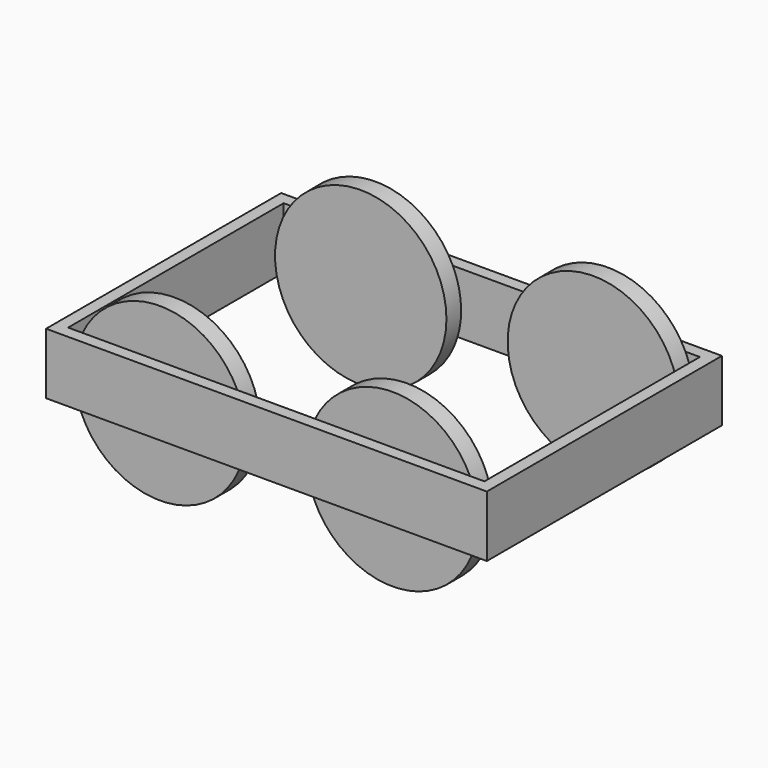
from build123d import *

# Parameters (mm, degrees)
F0_W     = 914.4
F0_H     = 609.6
F0_W_2   = 863.6
F0_H_2   = 558.8
F1_DEPTH = 127
F2_R     = 177.8
F3_DEPTH = 38.1


with BuildPart() as f1:
    # F0 (on Top) → F1 (new body)
    with BuildSketch(Plane.XY):
        Rectangle(F0_W, F0_H)
        Rectangle(F0_W_2, F0_H_2, mode=Mode.SUBTRACT)
    extrude(amount=F1_DEPTH)

    # F2 (on face) → F3 (join)
    with BuildSketch(Plane.XZ.offset(-279.4)):
        with Locations((-241.3, 50.8)):
            Circle(F2_R)
        with Locations((241.3, 50.8)):
            Circle(F2_R)
    extrude(amount=F3_DEPTH)

    # F4: F1 across plane


with BuildPart() as f1_1:
    add(f1.part)
    add(f1.part.mirror(Plane.XZ))


solid = f1_1.part
